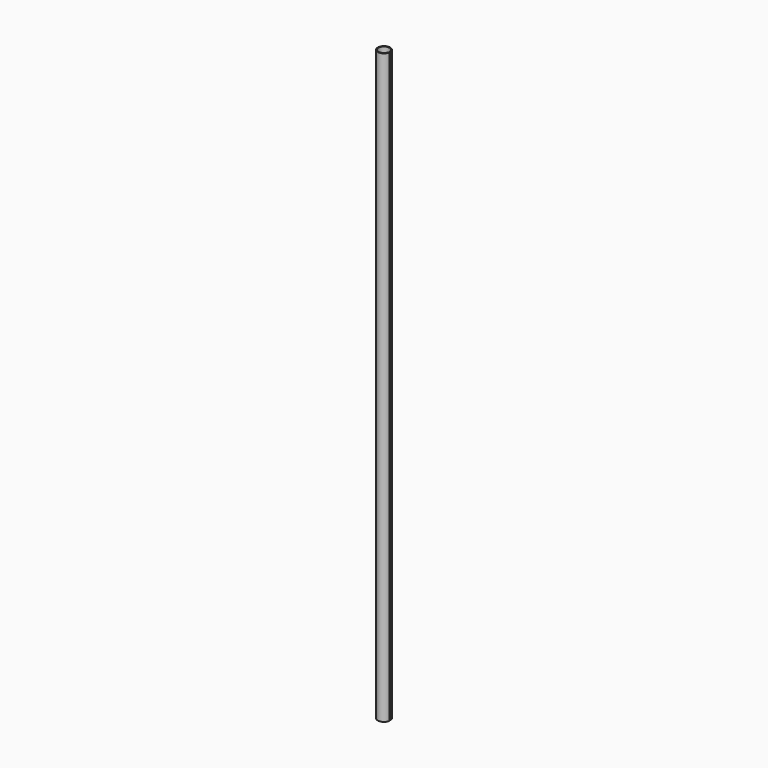
from build123d import *

# Parameters (mm, degrees)
F0_R      = 19.05
F1_DEPTH  = 1828.8
F2_T      = -2.54
F1_FACE_R = 19.05
F3_DEPTH  = 25.4
F5_W      = 6.35
F5_H      = 30480
F6_DEPTH  = 25.4


with BuildPart() as f1:
    # F0 (on Top) → F1 (new body)
    with BuildSketch(Plane.XY):
        with Locations((-46.609409, 0)):
            Circle(F0_R)
    extrude(amount=F1_DEPTH)

    # F2
    f2_openings = [f1.faces().sort_by_distance(p)[0] for p in [
        (-46.609409, 0, 0),
    ]]
    offset(amount=F2_T, openings=f2_openings)

    # F1_face (on face) → F3 (cut)
    with BuildSketch(Plane(origin=(-46.609409, 0, 1828.8), x_dir=(1, 0, 0), z_dir=(0, 0, 1))):
        Circle(F1_FACE_R)
    extrude(amount=-F3_DEPTH, mode=Mode.SUBTRACT)

    # F5 (on offset) → F6 (cut)
    with BuildSketch(Plane.YZ.offset(-25.4)):
        with Locations((0, 2198.531465)):
            Rectangle(F5_W, F5_H)
    extrude(amount=-F6_DEPTH, mode=Mode.SUBTRACT)


solid = f1.part
